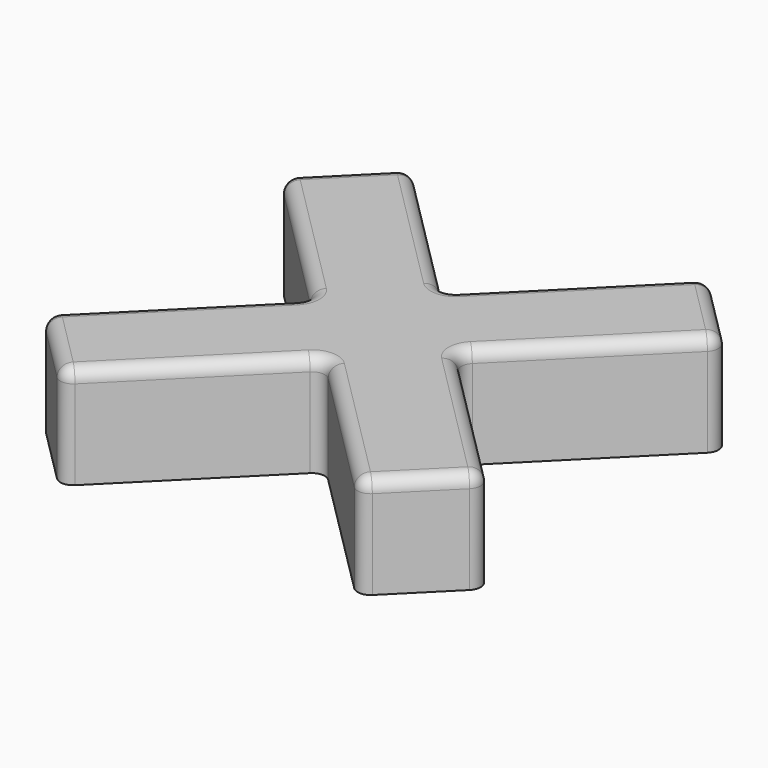
from build123d import *

# Parameters (mm, degrees)
F1_DEPTH = 8
F2_R     = 1
F3_DEPTH = 5
F4_DEPTH = 3


with BuildPart() as f1:
    # F0 (on Top) → F1 (new body)
    with BuildSketch(Plane.XY):
        Polygon((-11.6672618896, 17.3241161391), (-17.3241161391, 11.6672618896), (-5.6568542495, 0), (-17.3241161391, -11.6672618896), (-11.6672618896, -17.3241161391), (0, -5.6568542495), (11.6672618896, -17.3241161391), (17.3241161391, -11.6672618896), (5.6568542495, 0), (17.3241161391, 11.6672618896), (11.6672618896, 17.3241161391), (0, 5.6568542495), align=None)
        with BuildLine():
            ThreePointArc((-1.7349351573, -1.8), (-0.9779218033, 2.3007974588), (2.5, 0))
            ThreePointArc((2.5, 0), (2.3007974588, -0.9779218033), (1.7349351573, -1.8))
            ThreePointArc((1.7349351573, -1.8), (0, -2.5), (-1.7349351573, -1.8))
        make_face(mode=Mode.SUBTRACT)
        Polygon((-11.6672618896, 17.3241161391), (-17.3241161391, 11.6672618896), (-5.6568542495, 0), (-17.3241161391, -11.6672618896), (-11.6672618896, -17.3241161391), (0, -5.6568542495), (11.6672618896, -17.3241161391), (17.3241161391, -11.6672618896), (5.6568542495, 0), (17.3241161391, 11.6672618896), (11.6672618896, 17.3241161391), (0, 5.6568542495), align=None)
        with BuildLine():
            ThreePointArc((-1.7349351573, -1.8), (-0.9779218033, 2.3007974588), (2.5, 0))
            ThreePointArc((2.5, 0), (2.3007974588, -0.9779218033), (1.7349351573, -1.8))
            ThreePointArc((1.7349351573, -1.8), (0, -2.5), (-1.7349351573, -1.8))
        make_face(mode=Mode.SUBTRACT)
        Polygon((-11.6672618896, 17.3241161391), (-17.3241161391, 11.6672618896), (-5.6568542495, 0), (-17.3241161391, -11.6672618896), (-11.6672618896, -17.3241161391), (0, -5.6568542495), (11.6672618896, -17.3241161391), (17.3241161391, -11.6672618896), (5.6568542495, 0), (17.3241161391, 11.6672618896), (11.6672618896, 17.3241161391), (0, 5.6568542495), align=None)
        with BuildLine():
            ThreePointArc((-1.7349351573, -1.8), (-0.9779218033, 2.3007974588), (2.5, 0))
            ThreePointArc((2.5, 0), (2.3007974588, -0.9779218033), (1.7349351573, -1.8))
            ThreePointArc((1.7349351573, -1.8), (0, -2.5), (-1.7349351573, -1.8))
        make_face(mode=Mode.SUBTRACT)
        Polygon((-11.6672618896, 17.3241161391), (-17.3241161391, 11.6672618896), (-5.6568542495, 0), (-17.3241161391, -11.6672618896), (-11.6672618896, -17.3241161391), (0, -5.6568542495), (11.6672618896, -17.3241161391), (17.3241161391, -11.6672618896), (5.6568542495, 0), (17.3241161391, 11.6672618896), (11.6672618896, 17.3241161391), (0, 5.6568542495), align=None)
        with BuildLine():
            ThreePointArc((-1.7349351573, -1.8), (-0.9779218033, 2.3007974588), (2.5, 0))
            ThreePointArc((2.5, 0), (2.3007974588, -0.9779218033), (1.7349351573, -1.8))
            ThreePointArc((1.7349351573, -1.8), (0, -2.5), (-1.7349351573, -1.8))
        make_face(mode=Mode.SUBTRACT)
        Polygon((-11.6672618896, 17.3241161391), (-17.3241161391, 11.6672618896), (-5.6568542495, 0), (-17.3241161391, -11.6672618896), (-11.6672618896, -17.3241161391), (0, -5.6568542495), (11.6672618896, -17.3241161391), (17.3241161391, -11.6672618896), (5.6568542495, 0), (17.3241161391, 11.6672618896), (11.6672618896, 17.3241161391), (0, 5.6568542495), align=None)
        with BuildLine():
            ThreePointArc((-1.7349351573, -1.8), (-0.9779218033, 2.3007974588), (2.5, 0))
            ThreePointArc((2.5, 0), (2.3007974588, -0.9779218033), (1.7349351573, -1.8))
            ThreePointArc((1.7349351573, -1.8), (0, -2.5), (-1.7349351573, -1.8))
        make_face(mode=Mode.SUBTRACT)
        with BuildLine():
            Line((1.7349351573, -1.8), (-1.7349351573, -1.8))
            ThreePointArc((-1.7349351573, -1.8), (0, -2.5), (1.7349351573, -1.8))
        make_face()
        with BuildLine():
            ThreePointArc((1.7349351573, -1.8), (2.3007974588, -0.9779218033), (2.5, 0))
            ThreePointArc((2.5, 0), (-0.9779218033, 2.3007974588), (-1.7349351573, -1.8))
            Line((-1.7349351573, -1.8), (1.7349351573, -1.8))
        make_face()
    extrude(amount=F1_DEPTH)

    # F2
    f2_edges = [f1.edges().sort_by_distance(p)[0] for p in [
        (-14.495689, 14.495689, 8),
        (-11.490485, 5.833631, 8),
        (-11.490485, -5.833631, 8),
        (-14.495689, -14.495689, 8),
        (-5.833631, -11.490485, 8),
        (5.833631, -11.490485, 8),
        (14.495689, -14.495689, 8),
        (11.490485, -5.833631, 8),
        (11.490485, 5.833631, 8),
        (14.495689, 14.495689, 8),
        (5.833631, 11.490485, 8),
        (-5.833631, 11.490485, 8),
        (-11.667262, -17.324116, 4),
        (-17.324116, -11.667262, 4),
        (-17.324116, 11.667262, 4),
        (11.667262, -17.324116, 4),
        (17.324116, -11.667262, 4),
        (17.324116, 11.667262, 4),
        (11.667262, 17.324116, 4),
        (-11.667262, 17.324116, 4),
        (0, 5.656854, 4),
        (-5.656854, 0, 4),
        (0, -5.656854, 4),
        (5.656854, 0, 4),
    ]]
    fillet(f2_edges, radius=F2_R)

    # F0 (on Top) → F3 (cut)
    with BuildSketch(Plane.XY):
        with BuildLine():
            ThreePointArc((1.7349351573, -1.8), (2.3007974588, -0.9779218033), (2.5, 0))
            ThreePointArc((2.5, 0), (-0.9779218033, 2.3007974588), (-1.7349351573, -1.8))
            Line((-1.7349351573, -1.8), (1.7349351573, -1.8))
        make_face()
    extrude(amount=F3_DEPTH, mode=Mode.SUBTRACT)

    # F0 (on Top) → F4 (cut)
    with BuildSketch(Plane.XY):
        with BuildLine():
            Line((1.7349351573, -1.8), (-1.7349351573, -1.8))
            ThreePointArc((-1.7349351573, -1.8), (0, -2.5), (1.7349351573, -1.8))
        make_face()
    extrude(amount=F4_DEPTH, mode=Mode.SUBTRACT)


solid = f1.part
